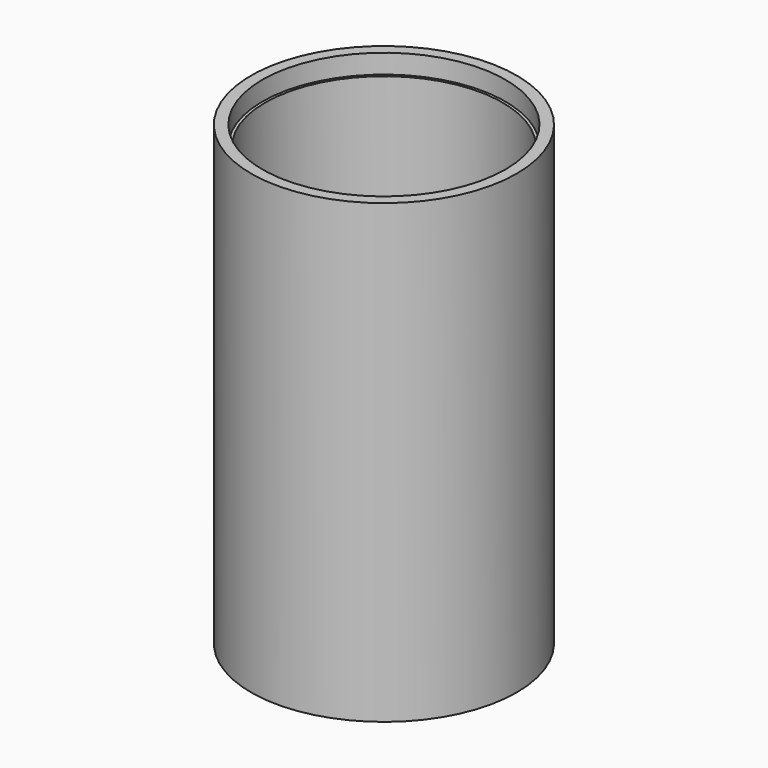
from build123d import *

# Parameters (mm, degrees)
F0_R     = 23.5
F1_DEPTH = 80.8
F2_R     = 21.5
F3_DEPTH = 3.4
F5_R     = 15.425
F6_DEPTH = 3.5
F7_R     = 14.25
F8_DEPTH = 77.301
F4_R     = 21
F9_DEPTH = 71.9


with BuildPart() as f1:
    # F0 (on Top) → F1 (new body)
    with BuildSketch(Plane.XY):
        Circle(F0_R)
    extrude(amount=F1_DEPTH)

    # F2 (on face) → F3 (cut)
    with BuildSketch(Plane.XY.offset(80.8)):
        Circle(F2_R)
    extrude(amount=-F3_DEPTH, mode=Mode.SUBTRACT)

    # F5 (on face) → F6 (cut)
    with BuildSketch(Plane(origin=(0, 0, 0), x_dir=(1, 0, 0), z_dir=(0, 0, -1))):
        Circle(F5_R)
    extrude(amount=-F6_DEPTH, mode=Mode.SUBTRACT)

    # F7 (on face) → F8 (cut, through all)
    with BuildSketch(Plane(origin=(0, 0, 3.5), x_dir=(1, 0, 0), z_dir=(0, 0, -1))):
        Circle(F7_R)
    extrude(amount=-F8_DEPTH, mode=Mode.SUBTRACT)

    # F4 (on face) → F9 (cut, through all)
    with BuildSketch(Plane.XY.offset(77.4)):
        Circle(F4_R)
    extrude(amount=-F9_DEPTH, mode=Mode.SUBTRACT)


solid = f1.part
